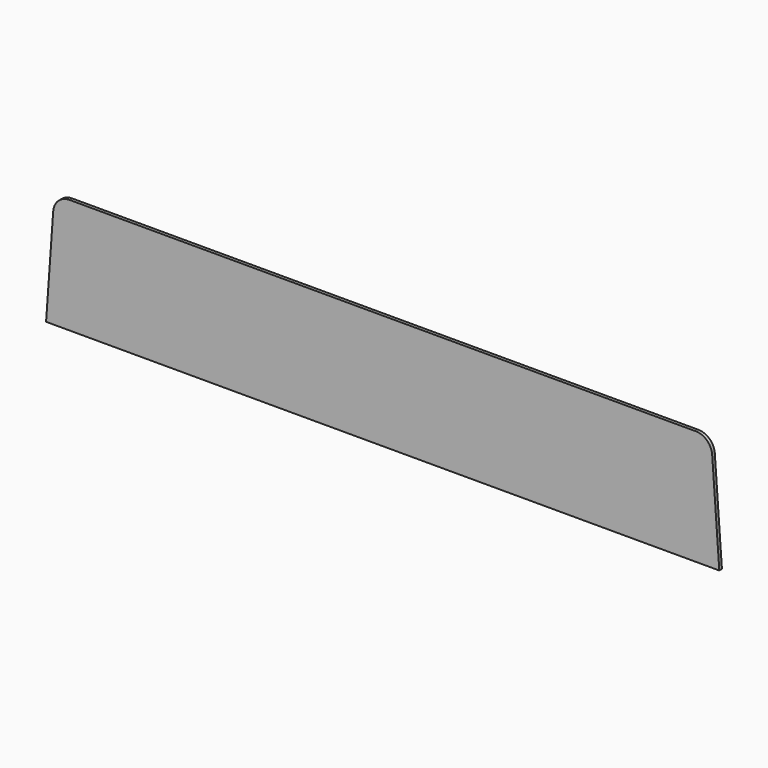
from build123d import *

# Parameters (mm, degrees)
F1_DEPTH = 2


with BuildPart() as f1:
    # F0 (on Front) → F1 (new body)
    with BuildSketch(Plane.XZ):
        with BuildLine():
            Line((-205, 0), (0, 0))
            Line((0, 0), (205, 0))
            Line((205, 0), (200.663395, 60.71247))
            ThreePointArc((200.663395, 60.71247), (197.503325, 67.318631), (190.688808, 70))
            Line((190.688808, 70), (0, 70))
            Line((0, 70), (-190.688808, 70))
            ThreePointArc((-190.688808, 70), (-197.503325, 67.318631), (-200.663395, 60.71247))
            Line((-200.663395, 60.71247), (-205, 0))
        make_face()
    extrude(amount=F1_DEPTH)


solid = f1.part
